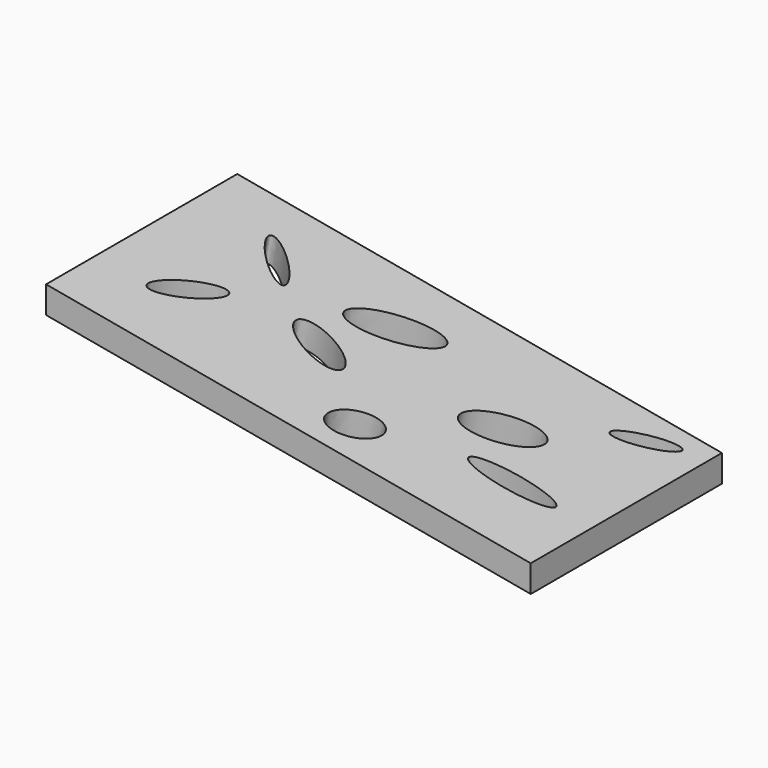
from build123d import *

# Parameters (mm, degrees)
F1_DEPTH = 40
F4_DEPTH = 25


with BuildPart() as f1:
    # F0 (on Front) → F1 (new body)
    with BuildSketch(Plane.XZ):
        Polygon((30.8767966926, 4.5323744416), (-50.2453977082, 19.2566088949), (-50.2453977082, 14.7242344532), (30.8767966926, 0), align=None)
    extrude(amount=-F1_DEPTH)

    # F3 (on face) → F4 (cut)
    with BuildSketch(Plane(origin=(1.7812037435, 0, 9.8134240397), x_dir=(0.9839237779, 0, -0.1785889114), z_dir=(0.1785889114, 0, 0.9839237779))):
        with BuildLine():
            add(Edge.make_bspline(
                [(-32.5005687773, 24.6123317629), (-30.8419025347, 26.4289661432), (-38.0362517588, 31.3321856377), (-45.2306009829, 36.2354051322), (-39.6949180014, 29.5155512574), (-34.1592350199, 22.7956973826), (-32.5005687773, 24.6123317629)],
                knots=[0, 0, 0, 2.0943951024, 2.0943951024, 4.1887902048, 4.1887902048, 6.2831853072, 6.2831853072, 6.2831853072], degree=2, weights=[1, 0.5, 1, 0.5, 1, 0.5, 1]))
        make_face()
        with BuildLine():
            add(Edge.make_bspline(
                [(-36.005936563, 17.6015887409), (-38.3396073347, 20.1686282979), (-43.2610511365, 13.3503129409), (-48.1824949384, 6.5319975838), (-40.9273803649, 10.7832733839), (-33.6722657914, 15.034549184), (-36.005936563, 17.6015887409)],
                knots=[0, 0, 0, 2.0943951024, 2.0943951024, 4.1887902048, 4.1887902048, 6.2831853072, 6.2831853072, 6.2831853072], degree=2, weights=[1, 0.5, 1, 0.5, 1, 0.5, 1]))
        make_face()
        with BuildLine():
            add(Edge.make_bspline(
                [(-15.1582062244, 15.2031779289), (-13.5397041763, 18.9381851694), (-22.6511520607, 20.6682977672), (-31.7625999451, 22.398410365), (-24.2696541088, 16.9332905267), (-16.7767082726, 11.4681706885), (-15.1582062244, 15.2031779289)],
                knots=[0, 0, 0, 2.0943951024, 2.0943951024, 4.1887902048, 4.1887902048, 6.2831853072, 6.2831853072, 6.2831853072], degree=2, weights=[1, 0.5, 1, 0.5, 1, 0.5, 1]))
        make_face()
        with BuildLine():
            add(Edge.make_bspline(
                [(-9.8079023883, 30.8851003647), (-11.5800253952, 35.9288371411), (-20.9333373186, 29.8093525349), (-30.286649242, 23.6898679286), (-19.1612143117, 24.7656157584), (-8.0357793813, 25.8413635882), (-9.8079023883, 30.8851003647)],
                knots=[0, 0, 0, 2.0943951024, 2.0943951024, 4.1887902048, 4.1887902048, 6.2831853072, 6.2831853072, 6.2831853072], degree=2, weights=[1, 0.5, 1, 0.5, 1, 0.5, 1]))
        make_face()
        with BuildLine():
            add(Edge.make_bspline(
                [(1.6306762118, 19.2620288581), (3.7016065149, 13.9121240505), (11.2450747895, 19.9079529632), (18.7885430641, 25.903781876), (9.1741444864, 25.2578577708), (-0.4402540913, 24.6119336657), (1.6306762118, 19.2620288581)],
                knots=[0, 0, 0, 2.0943951024, 2.0943951024, 4.1887902048, 4.1887902048, 6.2831853072, 6.2831853072, 6.2831853072], degree=2, weights=[1, 0.5, 1, 0.5, 1, 0.5, 1]))
        make_face()
        with BuildLine():
            add(Edge.make_bspline(
                [(8.641416207, 12.8047661856), (8.641416207, 9.6092501659), (19.7110101581, 11.2070081758), (30.7806041092, 12.8047661856), (19.7110101581, 14.4025241954), (8.641416207, 16.0002822052), (8.641416207, 12.8047661856)],
                knots=[0, 0, 0, 2.0943951024, 2.0943951024, 4.1887902048, 4.1887902048, 6.2831853072, 6.2831853072, 6.2831853072], degree=2, weights=[1, 0.5, 1, 0.5, 1, 0.5, 1]))
        make_face()
        with BuildLine():
            add(Edge.make_bspline(
                [(-2.2436806466, 8.7459152564), (-4.690919706, 13.6403949194), (-9.0020975011, 8.4257572986), (-13.3132752962, 3.2111196779), (-6.5548584418, 3.5312776357), (0.2035584127, 3.8514355935), (-2.2436806466, 8.7459152564)],
                knots=[0, 0, 0, 2.0943951024, 2.0943951024, 4.1887902048, 4.1887902048, 6.2831853072, 6.2831853072, 6.2831853072], degree=2, weights=[1, 0.5, 1, 0.5, 1, 0.5, 1]))
        make_face()
        with BuildLine():
            add(Edge.make_bspline(
                [(16.9436112046, 31.992059201), (18.0716554089, 29.7359698435), (24.1493891186, 34.1848910312), (30.2271228284, 38.6338122189), (23.0213449144, 36.4409803887), (15.8155670004, 34.2481485585), (16.9436112046, 31.992059201)],
                knots=[0, 0, 0, 2.0943951024, 2.0943951024, 4.1887902048, 4.1887902048, 6.2831853072, 6.2831853072, 6.2831853072], degree=2, weights=[1, 0.5, 1, 0.5, 1, 0.5, 1]))
        make_face()
    extrude(amount=-F4_DEPTH, mode=Mode.SUBTRACT)


solid = f1.part
